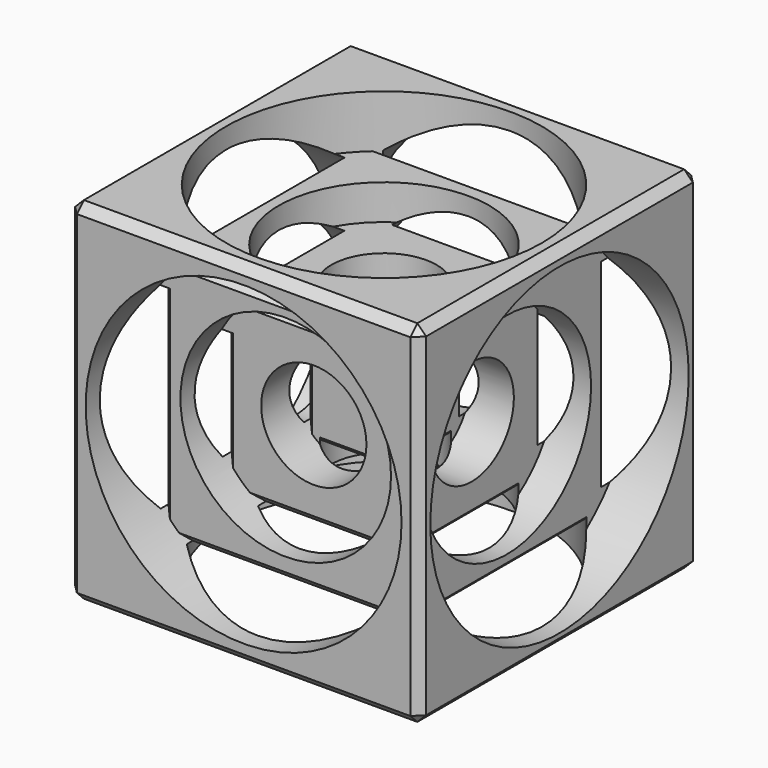
from build123d import *

# Parameters (mm, degrees)
SKETCH_W        = 200
SKETCH_H        = 200
PAD_DEPTH       = 200
SKETCH001_R     = 30
POCKET_DEPTH    = 75
SKETCH002_R     = 60
POCKET001_DEPTH = 50
SKETCH003_R     = 90
POCKET002_DEPTH = 30
SKETCH004_R     = 30
POCKET003_DEPTH = 75
SKETCH005_R     = 60
POCKET004_DEPTH = 50
SKETCH006_R     = 90
POCKET005_DEPTH = 30
SKETCH007_R     = 30
POCKET006_DEPTH = 75
SKETCH008_R     = 60
POCKET007_DEPTH = 50
SKETCH009_R     = 90
POCKET008_DEPTH = 30
SKETCH010_R     = 30
POCKET009_DEPTH = 75
SKETCH011_R     = 60
POCKET010_DEPTH = 50
SKETCH012_R     = 92.012225
POCKET011_DEPTH = 30
SKETCH013_R     = 30
POCKET012_DEPTH = 75
SKETCH014_R     = 60
POCKET013_DEPTH = 50
SKETCH015_R     = 90
POCKET014_DEPTH = 30
SKETCH016_R     = 30
POCKET015_DEPTH = 75
SKETCH017_R     = 60
POCKET016_DEPTH = 50
SKETCH018_R     = 90
POCKET017_DEPTH = 30
CHAMFER_SIZE    = 5
CHAMFER001_SIZE = 4
CHAMFER002_SIZE = 3
CHAMFER003_SIZE = 3
CHAMFER004_SIZE = 3


with BuildPart() as part:
    # Sketch → Pad (new body)
    with BuildSketch(Plane.XY):
        Rectangle(SKETCH_W, SKETCH_H)
    extrude(amount=PAD_DEPTH)

    # Sketch001 → Pocket (cut)
    with BuildSketch(Plane.XY.offset(200)):
        Circle(SKETCH001_R)
    extrude(amount=-POCKET_DEPTH, mode=Mode.SUBTRACT)

    # Sketch002 (on Face5 of Pocket) → Pocket001 (cut)
    with BuildSketch(Plane.XY.offset(200)):
        Circle(SKETCH002_R)
    extrude(amount=-POCKET001_DEPTH, mode=Mode.SUBTRACT)

    # Sketch003 (on DatumPlane) → Pocket002 (cut)
    with BuildSketch(Plane.XY.offset(200)):
        Circle(SKETCH003_R)
    extrude(amount=-POCKET002_DEPTH, mode=Mode.SUBTRACT)

    # Sketch004 (on DatumPlane) → Pocket003 (cut)
    with BuildSketch(Plane(origin=(-100, 0, 0), x_dir=(0, -1, 0), z_dir=(-1, 0, 0))):
        with Locations((0, 98.38681)):
            Circle(SKETCH004_R)
    extrude(amount=-POCKET003_DEPTH, mode=Mode.SUBTRACT)

    # Sketch005 (on DatumPlane) → Pocket004 (cut)
    with BuildSketch(Plane(origin=(-100, 0, 0), x_dir=(0, -1, 0), z_dir=(-1, 0, 0))):
        with Locations((0, 97.633492)):
            Circle(SKETCH005_R)
    extrude(amount=-POCKET004_DEPTH, mode=Mode.SUBTRACT)

    # Sketch006 (on DatumPlane) → Pocket005 (cut)
    with BuildSketch(Plane(origin=(-100, 0, 0), x_dir=(0, -1, 0), z_dir=(-1, 0, 0))):
        with Locations((0, 98.299767)):
            Circle(SKETCH006_R)
    extrude(amount=-POCKET005_DEPTH, mode=Mode.SUBTRACT)

    # Sketch007 (on DatumPlane) → Pocket006 (cut)
    with BuildSketch(Plane.XZ.offset(100)):
        with Locations((0, 99.688095)):
            Circle(SKETCH007_R)
    extrude(amount=-POCKET006_DEPTH, mode=Mode.SUBTRACT)

    # Sketch008 (on DatumPlane) → Pocket007 (cut)
    with BuildSketch(Plane.XZ.offset(100)):
        with Locations((0, 101.733421)):
            Circle(SKETCH008_R)
    extrude(amount=-POCKET007_DEPTH, mode=Mode.SUBTRACT)

    # Sketch009 (on DatumPlane) → Pocket008 (cut)
    with BuildSketch(Plane.XZ.offset(100)):
        with Locations((0, 100.369873)):
            Circle(SKETCH009_R)
    extrude(amount=-POCKET008_DEPTH, mode=Mode.SUBTRACT)

    # Sketch010 (on DatumPlane) → Pocket009 (cut)
    with BuildSketch(Plane.YZ.offset(100)):
        with Locations((0, 97.254868)):
            Circle(SKETCH010_R)
    extrude(amount=-POCKET009_DEPTH, mode=Mode.SUBTRACT)

    # Sketch011 (on DatumPlane) → Pocket010 (cut)
    with BuildSketch(Plane.YZ.offset(100)):
        with Locations((0, 97.259674)):
            Circle(SKETCH011_R)
    extrude(amount=-POCKET010_DEPTH, mode=Mode.SUBTRACT)

    # Sketch012 (on DatumPlane) → Pocket011 (cut)
    with BuildSketch(Plane.YZ.offset(100)):
        with Locations((0, 99.492409)):
            Circle(SKETCH012_R)
    extrude(amount=-POCKET011_DEPTH, mode=Mode.SUBTRACT)

    # Sketch013 (on DatumPlane) → Pocket012 (cut)
    with BuildSketch(Plane(origin=(0, 0, 0), x_dir=(1, 0, 0), z_dir=(0, 0, -1))):
        Circle(SKETCH013_R)
    extrude(amount=-POCKET012_DEPTH, mode=Mode.SUBTRACT)

    # Sketch014 (on DatumPlane) → Pocket013 (cut)
    with BuildSketch(Plane(origin=(0, 0, 0), x_dir=(1, 0, 0), z_dir=(0, 0, -1))):
        Circle(SKETCH014_R)
    extrude(amount=-POCKET013_DEPTH, mode=Mode.SUBTRACT)

    # Sketch015 (on DatumPlane) → Pocket014 (cut)
    with BuildSketch(Plane(origin=(0, 0, 0), x_dir=(1, 0, 0), z_dir=(0, 0, -1))):
        Circle(SKETCH015_R)
    extrude(amount=-POCKET014_DEPTH, mode=Mode.SUBTRACT)

    # Sketch016 (on DatumPlane) → Pocket015 (cut)
    with BuildSketch(Plane(origin=(0, 100, 0), x_dir=(-1, 0, 0), z_dir=(0, 1, 0))):
        with Locations((0, 99.416222)):
            Circle(SKETCH016_R)
    extrude(amount=-POCKET015_DEPTH, mode=Mode.SUBTRACT)

    # Sketch017 (on DatumPlane) → Pocket016 (cut)
    with BuildSketch(Plane(origin=(0, 100, 0), x_dir=(-1, 0, 0), z_dir=(0, 1, 0))):
        with Locations((0, 99.775513)):
            Circle(SKETCH017_R)
    extrude(amount=-POCKET016_DEPTH, mode=Mode.SUBTRACT)

    # Sketch018 (on DatumPlane) → Pocket017 (cut)
    with BuildSketch(Plane(origin=(0, 100, 0), x_dir=(-1, 0, 0), z_dir=(0, 1, 0))):
        with Locations((0, 100.333717)):
            Circle(SKETCH018_R)
    extrude(amount=-POCKET017_DEPTH, mode=Mode.SUBTRACT)

    # Chamfer
    chamfer_edges = [part.edges().sort_by_distance(p)[0] for p in [
        (100, 100, 100),
        (0, 100, 200),
        (-100, 100, 100),
        (0, 100, 0),
        (-100, 0, 0),
        (-100, 0, 200),
        (-100, -100, 100),
        (0, -100, 200),
        (100, 0, 200),
        (100, -100, 100),
        (0, -100, 0),
        (100, 0, 0),
    ]]
    chamfer(chamfer_edges, length=CHAMFER_SIZE)

    # Chamfer001
    chamfer001_edges = [part.edges().sort_by_distance(p)[0] for p in [
        (-70, 0, 170),
        (-70, 70, 99.316742),
        (-70, -70, 99.33482),
        (-70, 0, 30),
        (-50, 0, 50),
        (-50, 50, 98.704502),
        (-50, 0, 150),
        (-50, -50, 99.683457),
        (-25, 0, 125),
        (-25, 25, 98.901516),
        (-25, 0, 75),
        (-25, -25, 99.037453),
        (25, -25, 98.471482),
        (0, -25, 125),
        (0, -50, 150),
        (50, -50, 99.496548),
        (0, -50, 50),
        (70, -70, 100.369873),
        (0, -70, 170),
        (0, -70, 30),
    ]]
    chamfer(chamfer001_edges, length=CHAMFER001_SIZE)

    # Chamfer002
    chamfer002_edges = [part.edges().sort_by_distance(p)[0] for p in [
        (70, -66, 100.369873),
        (70, 0, 30),
        (0, 70, 30),
        (-66, 70, 97.006896),
        (0, 70, 170),
        (70, 70, 100.333717),
        (0, 50, 150),
        (50, 50, 98.517594),
        (0, 50, 50),
        (0, -25, 75),
        (0, 25, 125),
        (50, 0, 150),
        (25, 0, 125),
        (70, 0, 170),
    ]]
    chamfer(chamfer002_edges, length=CHAMFER002_SIZE)

    # Chamfer003
    chamfer003_edges = [part.edges().sort_by_distance(p)[0] for p in [
        (50, 0, 50),
        (25, 0, 75),
        (25, 25, 98.335545),
    ]]
    chamfer(chamfer003_edges, length=CHAMFER003_SIZE)

    # Chamfer004
    chamfer004_edges = [part.edges().sort_by_distance(p)[0] for p in [
        (0, 25, 75),
    ]]
    chamfer(chamfer004_edges, length=CHAMFER004_SIZE)


solid = part.part
